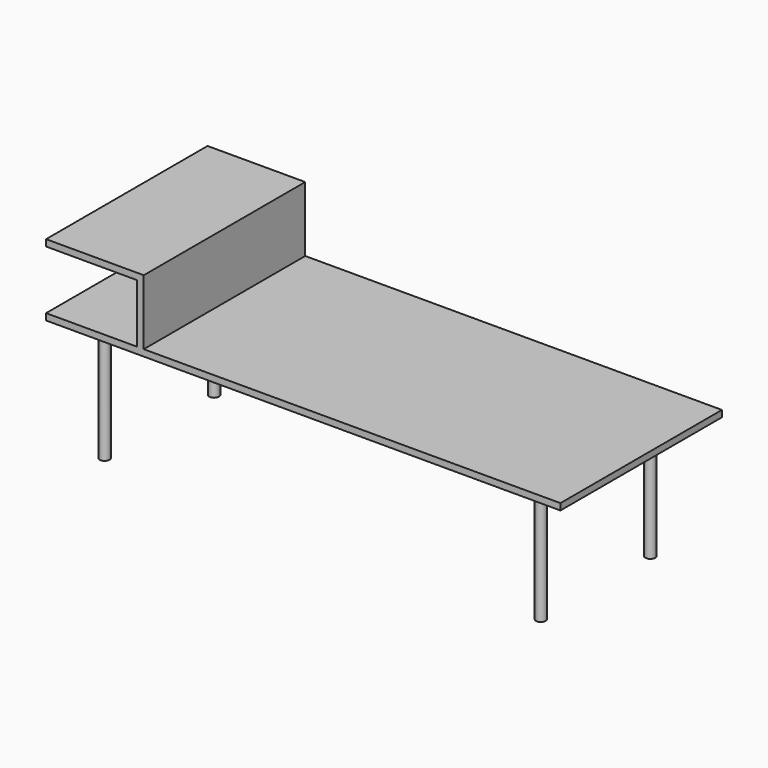
from build123d import *

# Parameters (mm, degrees)
F0_W     = 1280
F0_H     = 20
F0_W_2   = 20
F0_H_2   = 180
F0_W_3   = 280
F1_DEPTH = 620
F2_R     = 15
F3_DEPTH = 380


with BuildPart() as f1:
    # F0 (on Front) → F1 (new body)
    with BuildSketch(Plane.XZ):
        with Locations((619.495484, 21.866439)):
            Rectangle(F0_W, F0_H)
        Polygon((-20.504516, 11.866439), (-20.504516, 31.866439), (-40.504516, 31.866439), (-320.504516, 31.866439), (-320.504516, 11.866439), align=None)
        with Locations((-30.504516, 121.866439)):
            Rectangle(F0_W_2, F0_H_2)
        with Locations((-30.504516, 221.866439)):
            Rectangle(F0_W_2, F0_H)
        with Locations((-180.504516, 221.866439)):
            Rectangle(F0_W_3, F0_H)
    extrude(amount=F1_DEPTH)

    # F2 (on face) → F3 (join)
    with BuildSketch(Plane(origin=(0, 0, 11.866439), x_dir=(1, 0, 0), z_dir=(0, 0, -1))):
        with Locations((-220.504516, 520)):
            Circle(F2_R)
        with Locations((-220.504516, 100)):
            Circle(F2_R)
        with Locations((1119.495484, 100)):
            Circle(F2_R)
        with Locations((1119.495484, 520)):
            Circle(F2_R)
    extrude(amount=F3_DEPTH)


solid = f1.part
